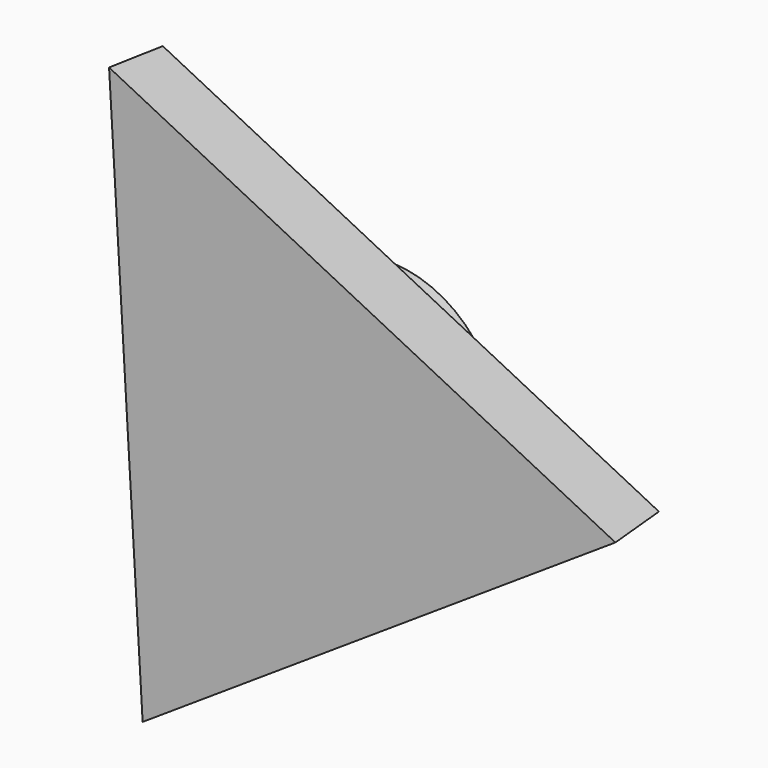
from build123d import *

# Parameters (mm, degrees)
F1_DEPTH = 25.4
F1_TAPER = -3
F2_R     = 43.1135543891
F3_DEPTH = 25.4
F3_TAPER = -3
F4_R     = 16.6756638842
F5_DEPTH = 25.4
F5_TAPER = -3


with BuildPart() as f1:
    # F0 (on Front) → F1 (new body)
    with BuildSketch(Plane.XZ):
        Polygon((129.7552857443, 7.7033717296), (-71.5489584847, 108.5196878651), (-58.2063272595, -116.2230595946), align=None)
    extrude(amount=F1_DEPTH, taper=F1_TAPER)

    # F2 (on face) → F3 (join)
    with BuildSketch(Plane(origin=(0, 0, 0), x_dir=(-1, 0, 0), z_dir=(0, 1, 0))):
        Circle(F2_R)
    extrude(amount=F3_DEPTH, taper=F3_TAPER)

    # F4 (on face) → F5 (join)
    with BuildSketch(Plane(origin=(0, 0, 0), x_dir=(-1, 0, 0), z_dir=(0, 1, 0))):
        Circle(F4_R)
    extrude(amount=F5_DEPTH, taper=F5_TAPER)


solid = f1.part
